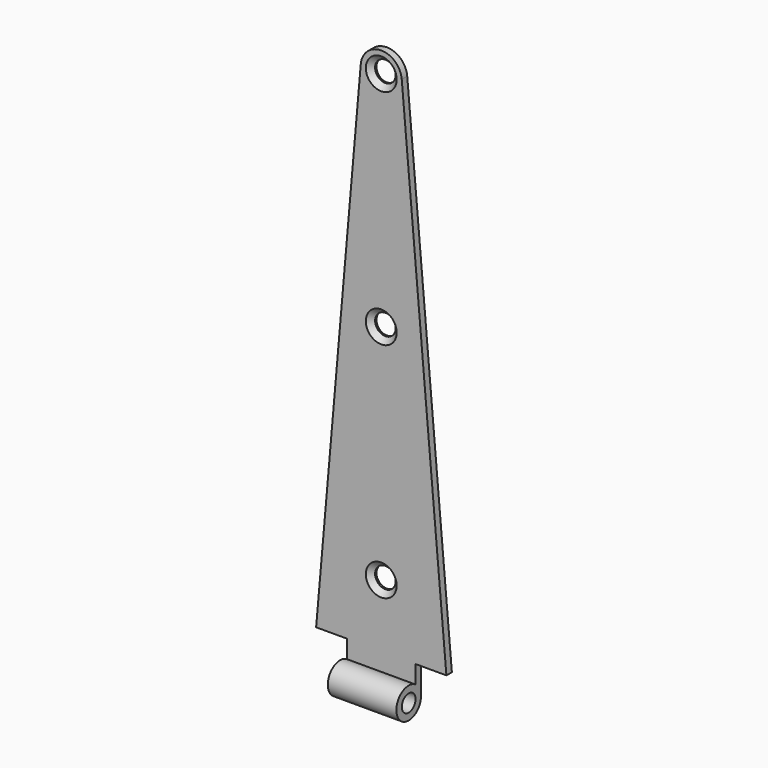
from build123d import *

# Parameters (mm, degrees)
F1_DEPTH       = 5.08
F2_W           = 50.8
F2_H           = 5.08
F3_DEPTH       = 22.86
F4_W           = 50.8
F4_H           = 5.08
F6_R           = 15.24
F8_D           = 15.24
F8_CSINK_D     = 22.86
F8_CSINK_ANGLE = 90


with BuildPart() as f1:
    # F0 (on Front) → F1 (new body)
    with BuildSketch(Plane.XZ):
        Polygon((48.26, 551.614324), (0, 0), (96.52, 0), align=None)
    extrude(amount=F1_DEPTH)

    # F2 (on face) → F3 (join)
    with BuildSketch(Plane(origin=(0, 0, 0), x_dir=(1, 0, 0), z_dir=(0, 0, -1))):
        with Locations((48.26, 2.54)):
            Rectangle(F2_W, F2_H)
    extrude(amount=F3_DEPTH)

    # F4 (on face) → F5 (revolve)
    with BuildSketch(Plane(origin=(0, 0, -22.86), x_dir=(1, 0, 0), z_dir=(0, 0, -1))):
        with Locations((48.26, 2.54)):
            Rectangle(F4_W, F4_H)
    revolve(axis=Axis((35.56, -11.43, -22.86), (1, 0, 0)))

    # F6
    f6_edges = [f1.edges().sort_by_distance(p)[0] for p in [
        (48.26, -2.54, 551.614324),
    ]]
    fillet(f6_edges, radius=F6_R)

    # F8 (through all)
    with Locations(Plane.XZ.offset(5.08)):
        with Locations((48.26, 46.554934), (48.26, 211.654934), (48.26, 376.754934)):
            CounterSinkHole(F8_D / 2, F8_CSINK_D / 2, counter_sink_angle=F8_CSINK_ANGLE)


solid = f1.part
